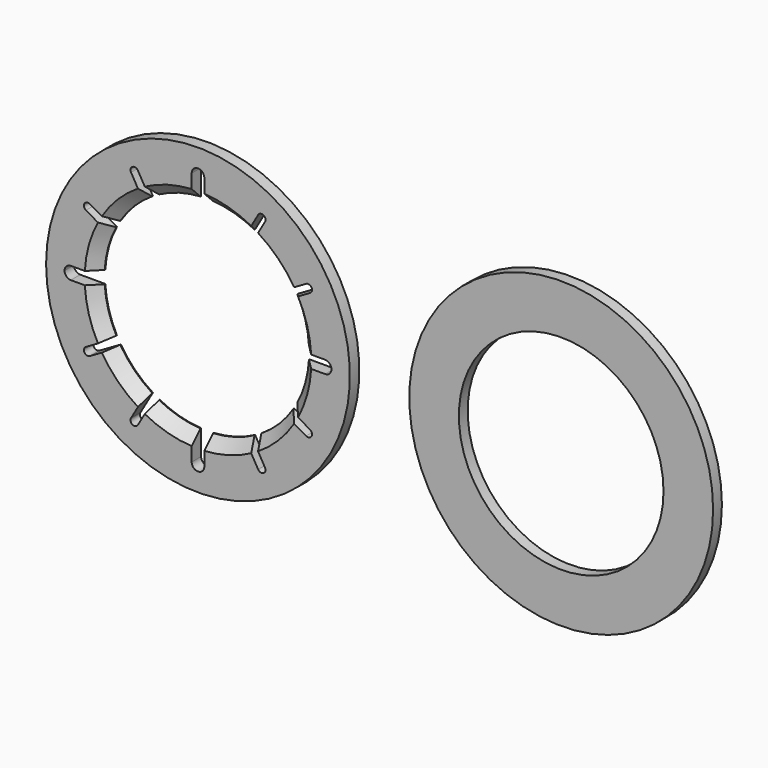
from build123d import *

# Parameters (mm, degrees)
F1_DEPTH = 1.5
F2_SIZE  = 1.4
F0_R     = 19.3
F0_R_2   = 13
F3_DEPTH = 1.4


with BuildPart() as f1:
    # F0 (on Front) → F1 (new body)
    with BuildSketch(Plane.XZ):
        with BuildLine():
            Line((0, 16.95), (0, 19.3))
            ThreePointArc((0, 19.3), (-13.6471608769, 13.6471608769), (-19.3, 0))
            Line((-19.3, 0), (-16.95, 0))
            ThreePointArc((-16.95, 0), (-16.7156854249, 0.5656854249), (-16.15, 0.8))
            Line((-16.15, 0.8), (-12.9753612666, 0.8))
            ThreePointArc((-12.9753612666, 0.8), (-12.5173262382, 3.509493389), (-11.5, 6.0621778265))
            Line((-11.5, 6.0621778265), (-14.2363102711, 7.6419872981))
            ThreePointArc((-14.2363102711, 7.6419872981), (-14.419322973, 8.325), (-13.7363102711, 8.5080127019))
            Line((-13.7363102711, 8.5080127019), (-11, 6.9282032303))
            ThreePointArc((-11, 6.9282032303), (-9.1923881554, 9.1923881554), (-6.9282032303, 11))
            Line((-6.9282032303, 11), (-8.5080127019, 13.7363102711))
            ThreePointArc((-8.5080127019, 13.7363102711), (-8.325, 14.419322973), (-7.6419872981, 14.2363102711))
            Line((-7.6419872981, 14.2363102711), (-6.0621778265, 11.5))
            ThreePointArc((-6.0621778265, 11.5), (-3.509493389, 12.5173262382), (-0.8, 12.9753612666))
            Line((-0.8, 12.9753612666), (-0.8, 16.15))
            ThreePointArc((-0.8, 16.15), (-0.5656854249, 16.7156854249), (0, 16.95))
        make_face()
        with BuildLine():
            ThreePointArc((-19.3, 0), (0, -19.3), (19.3, 0))
            ThreePointArc((19.3, 0), (13.6471608769, 13.6471608769), (0, 19.3))
            Line((0, 19.3), (0, 16.95))
            ThreePointArc((0, 16.95), (0.5656854249, 16.7156854249), (0.8, 16.15))
            Line((0.8, 16.15), (0.8, 12.9753612666))
            ThreePointArc((0.8, 12.9753612666), (3.509493389, 12.5173262382), (6.0621778265, 11.5))
            Line((6.0621778265, 11.5), (7.6419872981, 14.2363102711))
            ThreePointArc((7.6419872981, 14.2363102711), (8.2044095226, 14.4692731843), (8.575, 13.9863102711))
            ThreePointArc((8.575, 13.9863102711), (8.5579629131, 13.8569007486), (8.5080127019, 13.7363102711))
            Line((8.5080127019, 13.7363102711), (6.9282032303, 11))
            ThreePointArc((6.9282032303, 11), (9.1923881554, 9.1923881554), (11, 6.9282032303))
            Line((11, 6.9282032303), (13.7363102711, 8.5080127019))
            ThreePointArc((13.7363102711, 8.5080127019), (14.2363102711, 8.5080127019), (14.4863102711, 8.075))
            ThreePointArc((14.4863102711, 8.075), (14.419322973, 7.825), (14.2363102711, 7.6419872981))
            Line((14.2363102711, 7.6419872981), (11.5, 6.0621778265))
            ThreePointArc((11.5, 6.0621778265), (12.5173262382, 3.509493389), (12.9753612666, 0.8))
            Line((12.9753612666, 0.8), (16.15, 0.8))
            ThreePointArc((16.15, 0.8), (16.7156854249, 0.5656854249), (16.95, 0))
            ThreePointArc((16.95, 0), (16.7156854249, -0.5656854249), (16.15, -0.8))
            Line((16.15, -0.8), (12.9753612666, -0.8))
            ThreePointArc((12.9753612666, -0.8), (12.5173262382, -3.509493389), (11.5, -6.0621778265))
            Line((11.5, -6.0621778265), (14.2363102711, -7.6419872981))
            ThreePointArc((14.2363102711, -7.6419872981), (14.419322973, -7.825), (14.4863102711, -8.075))
            ThreePointArc((14.4863102711, -8.075), (14.2363102711, -8.5080127019), (13.7363102711, -8.5080127019))
            Line((13.7363102711, -8.5080127019), (11, -6.9282032303))
            ThreePointArc((11, -6.9282032303), (9.1923881554, -9.1923881554), (6.9282032303, -11))
            Line((6.9282032303, -11), (8.5080127019, -13.7363102711))
            ThreePointArc((8.5080127019, -13.7363102711), (8.5579629131, -13.8569007486), (8.575, -13.9863102711))
            ThreePointArc((8.575, -13.9863102711), (8.2044095226, -14.4692731843), (7.6419872981, -14.2363102711))
            Line((7.6419872981, -14.2363102711), (6.0621778265, -11.5))
            ThreePointArc((6.0621778265, -11.5), (3.509493389, -12.5173262382), (0.8, -12.9753612666))
            Line((0.8, -12.9753612666), (0.8, -16.15))
            ThreePointArc((0.8, -16.15), (0, -16.95), (-0.8, -16.15))
            Line((-0.8, -16.15), (-0.8, -12.9753612666))
            ThreePointArc((-0.8, -12.9753612666), (-3.509493389, -12.5173262382), (-6.0621778265, -11.5))
            Line((-6.0621778265, -11.5), (-7.6419872981, -14.2363102711))
            ThreePointArc((-7.6419872981, -14.2363102711), (-8.325, -14.419322973), (-8.5080127019, -13.7363102711))
            Line((-8.5080127019, -13.7363102711), (-6.9282032303, -11))
            ThreePointArc((-6.9282032303, -11), (-9.1923881554, -9.1923881554), (-11, -6.9282032303))
            Line((-11, -6.9282032303), (-13.7363102711, -8.5080127019))
            ThreePointArc((-13.7363102711, -8.5080127019), (-14.419322973, -8.325), (-14.2363102711, -7.6419872981))
            Line((-14.2363102711, -7.6419872981), (-11.5, -6.0621778265))
            ThreePointArc((-11.5, -6.0621778265), (-12.5173262382, -3.509493389), (-12.9753612666, -0.8))
            Line((-12.9753612666, -0.8), (-16.15, -0.8))
            ThreePointArc((-16.15, -0.8), (-16.7156854249, -0.5656854249), (-16.95, 0))
            Line((-16.95, 0), (-19.3, 0))
        make_face()
    extrude(amount=F1_DEPTH)

    # F2
    f2_edges = [f1.edges().sort_by_distance(p)[0] for p in [
        (-12.517326, -1.5, 3.509493),
        (-9.192388, -1.5, 9.192388),
        (-3.509493, -1.5, 12.517326),
        (3.509493, -1.5, 12.517326),
        (9.192388, -1.5, 9.192388),
        (12.517326, -1.5, 3.509493),
        (12.517326, -1.5, -3.509493),
        (9.192388, -1.5, -9.192388),
        (3.509493, -1.5, -12.517326),
        (-3.509493, -1.5, -12.517326),
        (-9.192388, -1.5, -9.192388),
        (-12.517326, -1.5, -3.509493),
    ]]
    chamfer(f2_edges, length=F2_SIZE)


with BuildPart() as f3:
    # F0 (on Front) → F3 (new body)
    with BuildSketch(Plane.XZ):
        with Locations((46.060487628, 0)):
            Circle(F0_R)
        with Locations((46.060487628, 0)):
            Circle(F0_R_2, mode=Mode.SUBTRACT)
    extrude(amount=F3_DEPTH)


solid = Compound([f1.part, f3.part])
